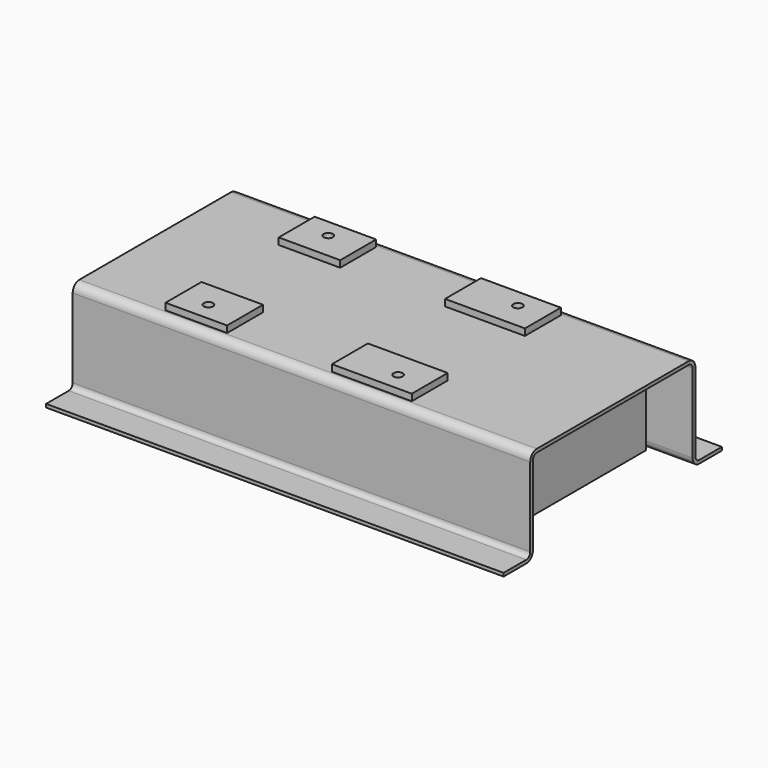
from build123d import *

# Parameters (mm, degrees)
F1_DEPTH = 873.125
F2_W     = 304.8
F2_H     = 171.45
F2_R     = 17.4625
F2_W_2   = 234.95
F3_DEPTH = 25.4
F4_W     = 12.7
F4_H     = 762
F5_DEPTH = 352.425


with BuildPart() as f1:
    # F0 (on Right) → F1 (new body, symmetric)
    with BuildSketch(Plane.YZ):
        with BuildLine():
            ThreePointArc((381, 31.75), (390.29936, 9.29936), (412.75, 0))
            Line((412.75, 0), (520.7, 0))
            Line((520.7, 0), (520.7, 12.7))
            Line((520.7, 12.7), (412.75, 12.7))
            ThreePointArc((412.75, 12.7), (399.279616, 18.279616), (393.7, 31.75))
            Line((393.7, 31.75), (393.7, 333.375))
            ThreePointArc((393.7, 333.375), (384.40064, 355.82564), (361.95, 365.125))
            Line((361.95, 365.125), (0, 365.125))
            Line((0, 365.125), (-361.95, 365.125))
            ThreePointArc((-361.95, 365.125), (-384.40064, 355.82564), (-393.7, 333.375))
            Line((-393.7, 333.375), (-393.7, 31.75))
            ThreePointArc((-393.7, 31.75), (-399.279616, 18.279616), (-412.75, 12.7))
            Line((-412.75, 12.7), (-520.7, 12.7))
            Line((-520.7, 12.7), (-520.7, 0))
            Line((-520.7, 0), (-412.75, 0))
            ThreePointArc((-412.75, 0), (-390.29936, 9.29936), (-381, 31.75))
            Line((-381, 31.75), (-381, 333.375))
            ThreePointArc((-381, 333.375), (-375.420384, 346.845384), (-361.95, 352.425))
            Line((-361.95, 352.425), (0, 352.425))
            Line((0, 352.425), (361.95, 352.425))
            ThreePointArc((361.95, 352.425), (375.420384, 346.845384), (381, 333.375))
            Line((381, 333.375), (381, 31.75))
        make_face()
    extrude(amount=F1_DEPTH, both=True)

    # F2 (on face) → F3 (join)
    with BuildSketch(Plane.XY.offset(365.125)):
        with Locations((238.125, 269.875)):
            Rectangle(F2_W, F2_H)
        with Locations((282.575, 285.75)):
            Circle(F2_R, mode=Mode.SUBTRACT)
        with Locations((-431.8, 269.875)):
            Rectangle(F2_W_2, F2_H)
        with Locations((-441.325, 285.75)):
            Circle(F2_R, mode=Mode.SUBTRACT)
        with Locations((238.125, -269.875)):
            Rectangle(F2_W, F2_H)
        with Locations((282.575, -285.75)):
            Circle(F2_R, mode=Mode.SUBTRACT)
        with Locations((-431.8, -269.875)):
            Rectangle(F2_W_2, F2_H)
        with Locations((-441.325, -285.75)):
            Circle(F2_R, mode=Mode.SUBTRACT)
    extrude(amount=F3_DEPTH)

    # F4 (on face) → F5 (join, through all)
    with BuildSketch(Plane(origin=(0, 0, 352.425), x_dir=(1, 0, 0), z_dir=(0, 0, -1))):
        with Locations((688.975, 0)):
            Rectangle(F4_W, F4_H)
    extrude(amount=F5_DEPTH)


solid = f1.part
